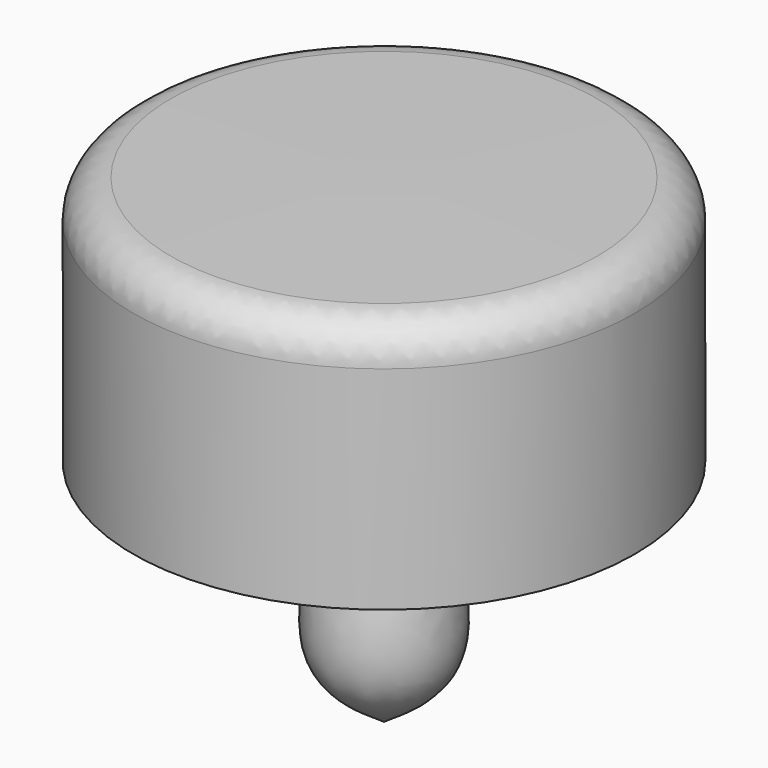
from build123d import *

# Parameters (mm, degrees)
F2_R = 5


with BuildPart() as f1:
    # F0 (on Front) → F1 (revolve)
    with BuildSketch(Plane.XZ):
        with BuildLine():
            Line((0, 63.3275562723), (0, 0))
            add(Edge.make_bspline(
                [(20.1993059018, 52.4090135295), (12.0879349617, 52.974924986), (-0.6657972156, 42.9352365122), (13.844036147, 7.5029659359), (3.5214675167, 2.5032162183), (0, 0)],
                knots=[0, 0, 0, 0, 0.3177281502, 0.7387302251, 1, 1, 1, 1], degree=3))
            Line((20.1993059018, 52.4090135295), (33.02860033, 30.1880237546))
            Line((33.02860033, 30.1880237546), (33.02860033, 63.0545968015))
            Line((33.02860033, 63.0545968015), (0, 63.3275562723))
        make_face()
    revolve(axis=Axis((0, 0, 31.6637781361), (0, 0, 1)))

    # F2
    f2_edges = [f1.edges().sort_by_distance(p)[0] for p in [
        (-33.0286, 0, 63.054597),
        (16.5143, 0, 63.191077),
    ]]
    fillet(f2_edges, radius=F2_R)


solid = f1.part
